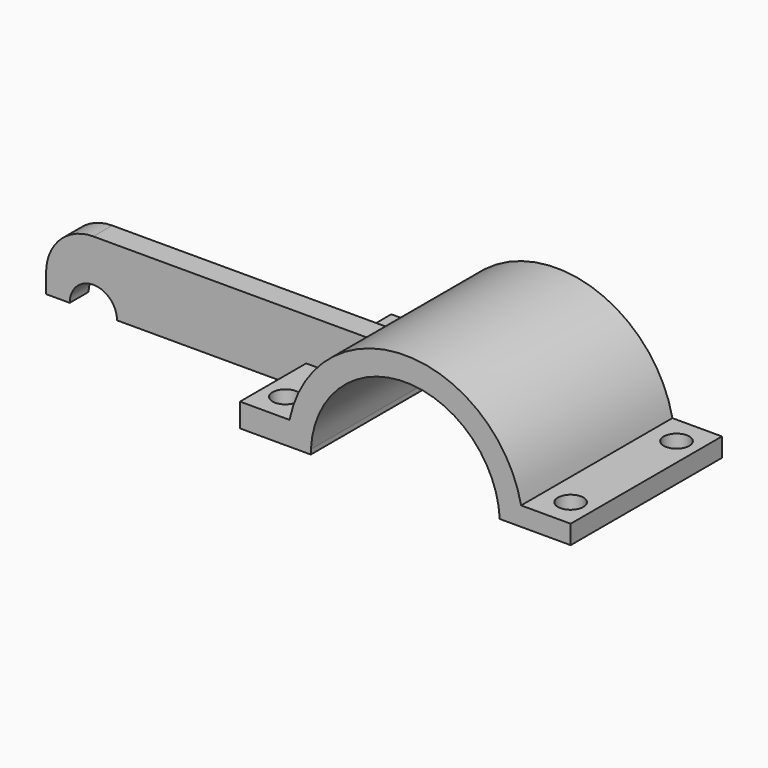
from build123d import *

# Parameters (mm, degrees)
F1_DEPTH = 12.7
F3_DEPTH = 1.5875
F4_R     = 1.7145
F5_DEPTH = 25.4


with BuildPart() as f1:
    # F0 (on Front) → F1 (new body, symmetric)
    with BuildSketch(Plane.XZ):
        with BuildLine():
            ThreePointArc((-12.6841150657, 0.635), (0, 12.7), (12.6841150657, 0.635))
            Line((12.6841150657, 0.635), (22.2091150657, 0.635))
            Line((22.2091150657, 0.635), (22.2091150657, 3.175))
            Line((22.2091150657, 3.175), (15.5542598667, 3.175))
            ThreePointArc((15.5542598667, 3.175), (0, 15.875), (-15.5542598667, 3.175))
            Line((-15.5542598667, 3.175), (-22.2091150657, 3.175))
            Line((-22.2091150657, 3.175), (-22.2091150657, 0.635))
            Line((-22.2091150657, 0.635), (-22.2091150657, 0))
            Line((-22.2091150657, 0), (-12.7, 0))
            ThreePointArc((-12.7, 0), (-12.6960281453, 0.3175993274), (-12.6841150657, 0.635))
        make_face()
    extrude(amount=F1_DEPTH, both=True)

    # F2 (on Front) → F3 (join, symmetric)
    with BuildSketch(Plane.XZ):
        with BuildLine():
            ThreePointArc((-15.5542598667, 3.175), (-14.6349663523, 6.1508848848), (-13.1523201375, 8.89))
            Line((-13.1523201375, 8.89), (-50.8, 8.89))
            ThreePointArc((-50.8, 8.89), (-55.2901280605, 7.0301280605), (-57.15, 2.54))
            Line((-57.15, 2.54), (-57.15, 0))
            Line((-57.15, 0), (-53.975, 0))
            ThreePointArc((-53.975, 0), (-50.8, 3.175), (-47.625, 0))
            Line((-47.625, 0), (-22.2091150657, 0))
            Line((-22.2091150657, 0), (-22.2091150657, 3.175))
            Line((-22.2091150657, 3.175), (-15.5542598667, 3.175))
        make_face()
    extrude(amount=F3_DEPTH, both=True)

    # F4 (on face) → F5 (cut)
    with BuildSketch(Plane.XY.offset(3.175)):
        with Locations((19.1611150657, 8.89)):
            Circle(F4_R)
        with Locations((19.1611150657, -8.89)):
            Circle(F4_R)
        with Locations((-19.1611150657, -8.89)):
            Circle(F4_R)
        with Locations((-19.1611150657, 8.89)):
            Circle(F4_R)
    extrude(amount=-F5_DEPTH, mode=Mode.SUBTRACT)


solid = f1.part
